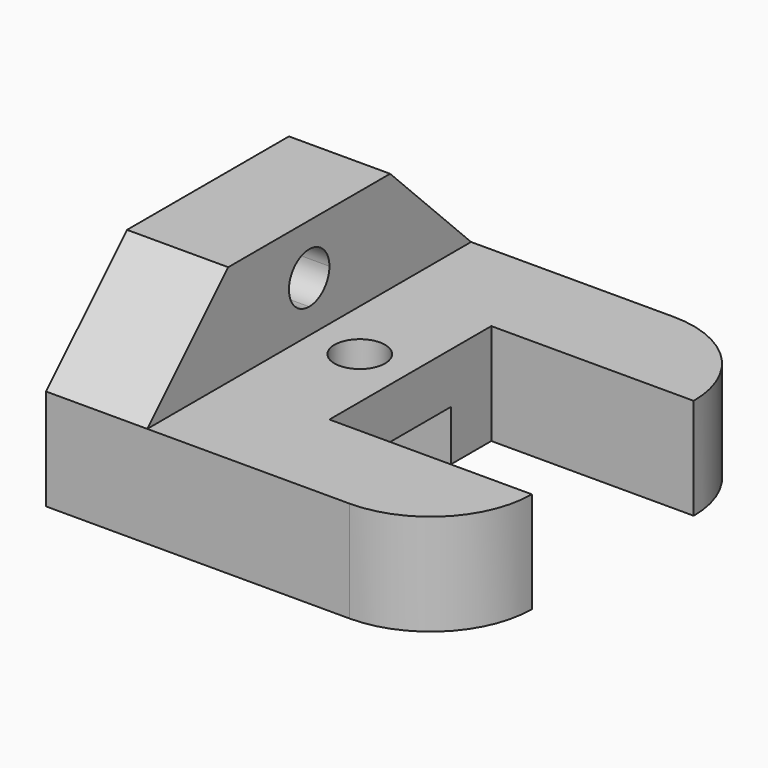
from build123d import *

# Parameters (mm, degrees)
F1_DEPTH = 101.6
F4_DEPTH = 381
F5_DEPTH = 1270


with BuildPart() as f1:
    # F0 (on Front) → F1 (new body, symmetric)
    with BuildSketch(Plane.XZ):
        Polygon((0, 101.6), (0, 0), (203.2, 0), (203.2, 50.8), (50.8, 50.8), (50.8, 101.6), align=None)
    extrude(amount=F1_DEPTH, both=True)

    # F3 (on face) → F4 (cut, symmetric)
    with BuildSketch(Plane.YZ.offset(203.2)):
        Polygon((-101.6, 101.6), (-101.6, 50.8), (-50.8, 101.6), align=None)
        with BuildLine():
            Line((0, 76.2), (0, 63.5))
            ThreePointArc((0, 63.5), (8.980256, 67.219744), (12.7, 76.2))
            ThreePointArc((12.7, 76.2), (8.980256, 85.180256), (0, 88.9))
            Line((0, 88.9), (0, 76.2))
        make_face()
        with BuildLine():
            ThreePointArc((0, 88.9), (-12.7, 76.2), (0, 63.5))
            Line((0, 63.5), (0, 76.2))
            Line((0, 76.2), (0, 88.9))
        make_face()
        Polygon((101.6, 101.6), (50.8, 101.6), (101.6, 50.8), align=None)
        Polygon((-25.4, 25.4), (-25.4, 0), (0, 0), (25.4, 0), (25.4, 25.4), align=None)
    extrude(amount=F4_DEPTH, both=True, mode=Mode.SUBTRACT)

    # F2 (on face) → F5 (cut)
    with BuildSketch(Plane.XY.offset(101.6)):
        with BuildLine():
            ThreePointArc((88.9, 0), (76.2, 12.7), (63.5, 0))
            Line((63.5, 0), (76.2, 0))
            Line((76.2, 0), (88.9, 0))
        make_face()
        with BuildLine():
            Line((76.2, 0), (63.5, 0))
            ThreePointArc((63.5, 0), (76.2, -12.7), (88.9, 0))
            Line((88.9, 0), (76.2, 0))
        make_face()
        with BuildLine():
            ThreePointArc((203.2, -50.8), (188.321024, -86.721024), (152.4, -101.6))
            Line((152.4, -101.6), (203.2, -101.6))
            Line((203.2, -101.6), (203.2, -50.8))
        make_face()
        with BuildLine():
            ThreePointArc((152.4, 101.6), (188.321024, 86.721024), (203.2, 50.8))
            Line((203.2, 50.8), (203.2, 101.6))
            Line((203.2, 101.6), (152.4, 101.6))
        make_face()
        Polygon((101.6, -50.8), (203.2, -50.8), (203.2, 50.8), (101.6, 50.8), (101.6, 0), align=None)
    extrude(amount=-F5_DEPTH, mode=Mode.SUBTRACT)


solid = f1.part
